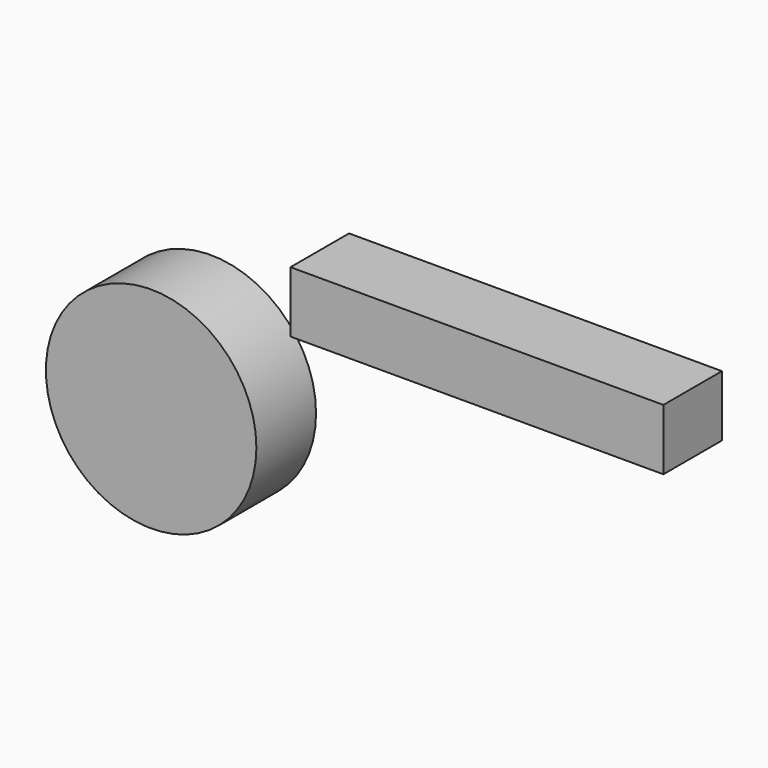
from build123d import *

# Parameters (mm, degrees)
F0_W     = 124.596402
F0_H     = 104.034252
F1_DEPTH = 635
F2_W     = 159.774974
F2_H     = 214.787192
F3_DEPTH = 25.4
F4_R     = 179.239616
F5_DEPTH = 127
F6_W     = 160.67934
F6_H     = 125.084535
F7_DEPTH = 50.8


with BuildPart() as f1:
    # F0 (on Right) → F1 (new body)
    with BuildSketch(Plane.YZ):
        with Locations((-62.298201, 52.017126)):
            Rectangle(F0_W, F0_H)
    extrude(amount=F1_DEPTH)

    # F2 (on Front) → F3 (cut)
    with BuildSketch(Plane.XZ):
        with Locations((-210.452251, 43.300625)):
            Rectangle(F2_W, F2_H)
    extrude(amount=F3_DEPTH, mode=Mode.SUBTRACT)


with BuildPart() as f5:
    # F4 (on Front) → F5 (new body)
    with BuildSketch(Plane.XZ):
        with Locations((-235.415787, -184.093982)):
            Circle(F4_R)
    extrude(amount=F5_DEPTH)

    # F6 (on Front) → F7 (cut)
    with BuildSketch(Plane.XZ):
        with Locations((-228.903055, -243.64566)):
            Rectangle(F6_W, F6_H)
    extrude(amount=F7_DEPTH, mode=Mode.SUBTRACT)


solid = Compound([f1.part, f5.part])
